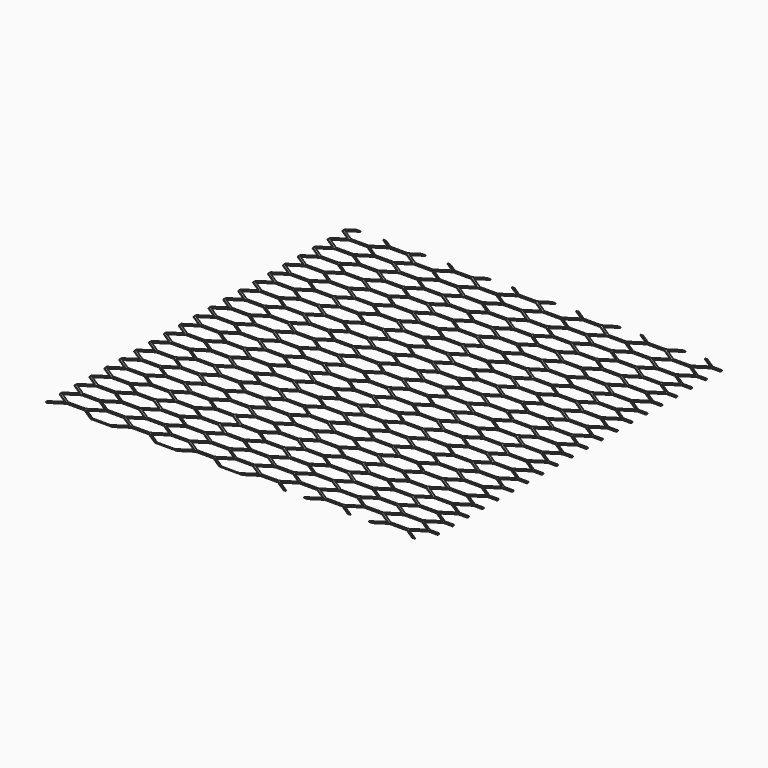
from build123d import *

# Parameters (mm, degrees)
F1_W     = 609.6
F1_H     = 609.6
F2_DEPTH = 1.2192
F3_DEPTH = 1.2192


with BuildPart() as f2:
    # F1 (on Top) → F2 (new body)
    with BuildSketch(Plane.XY):
        with Locations((304.8, 304.8)):
            Rectangle(F1_W, F1_H)
    extrude(amount=F2_DEPTH)

    # F0 (on Top) → F3 (cut, through all)
    with BuildSketch(Plane.XY):
        Polygon((22.591135, 13.462), (1.852864, 0), (22.591135, -13.462), (50.964592, -13.462), (71.702864, 0), (50.964592, 13.462), align=None)
        Polygon((-1.410208, -28.40941), (19.328064, -14.94741), (-1.410208, -1.48541), (-29.783665, -1.48541), (-50.521936, -14.94741), (-29.783665, -28.40941), align=None)
        Polygon((22.591135, 43.4086), (1.852864, 29.9466), (22.591135, 16.4846), (50.964592, 16.4846), (71.702864, 29.9466), (50.964592, 43.4086), align=None)
        Polygon((-1.410208, 1.53719), (19.328064, 14.99919), (-1.410208, 28.46119), (-29.783665, 28.46119), (-50.521936, 14.99919), (-29.783665, 1.53719), align=None)
        Polygon((126.719276, 13.058588), (105.981005, -0.403412), (126.719276, -13.865412), (155.092734, -13.865412), (175.831005, -0.403412), (155.092734, 13.058588), align=None)
        Polygon((102.717934, -28.812822), (123.456205, -15.350822), (102.717934, -1.888822), (74.344476, -1.888822), (53.606205, -15.350822), (74.344476, -28.812822), align=None)
        Polygon((126.719276, 43.005188), (105.981005, 29.543188), (126.719276, 16.081188), (155.092734, 16.081188), (175.831005, 29.543188), (155.092734, 43.005188), align=None)
        Polygon((102.717934, 1.133778), (123.456205, 14.595778), (102.717934, 28.057778), (74.344476, 28.057778), (53.606205, 14.595778), (74.344476, 1.133778), align=None)
        Polygon((230.847418, 12.655175), (210.109147, -0.806825), (230.847418, -14.268825), (259.220875, -14.268825), (279.959147, -0.806825), (259.220875, 12.655175), align=None)
        Polygon((206.846075, -29.216235), (227.584347, -15.754235), (206.846075, -2.292235), (178.472618, -2.292235), (157.734347, -15.754235), (178.472618, -29.216235), align=None)
        Polygon((230.847418, 42.601775), (210.109147, 29.139775), (230.847418, 15.677775), (259.220875, 15.677775), (279.959147, 29.139775), (259.220875, 42.601775), align=None)
        Polygon((206.846075, 0.730365), (227.584347, 14.192365), (206.846075, 27.654365), (178.472618, 27.654365), (157.734347, 14.192365), (178.472618, 0.730365), align=None)
        Polygon((334.975559, 12.251763), (314.237288, -1.210237), (334.975559, -14.672237), (363.349017, -14.672237), (384.087288, -1.210237), (363.349017, 12.251763), align=None)
        Polygon((310.974217, -29.619647), (331.712488, -16.157647), (310.974217, -2.695647), (282.600759, -2.695647), (261.862488, -16.157647), (282.600759, -29.619647), align=None)
        Polygon((334.975559, 42.198363), (314.237288, 28.736363), (334.975559, 15.274363), (363.349017, 15.274363), (384.087288, 28.736363), (363.349017, 42.198363), align=None)
        Polygon((310.974217, 0.326953), (331.712488, 13.788953), (310.974217, 27.250953), (282.600759, 27.250953), (261.862488, 13.788953), (282.600759, 0.326953), align=None)
        Polygon((439.103701, 11.848351), (418.36543, -1.613649), (439.103701, -15.075649), (467.477158, -15.075649), (488.21543, -1.613649), (467.477158, 11.848351), align=None)
        Polygon((415.102358, -30.023059), (435.84063, -16.561059), (415.102358, -3.099059), (386.728901, -3.099059), (365.99063, -16.561059), (386.728901, -30.023059), align=None)
        Polygon((439.103701, 41.794951), (418.36543, 28.332951), (439.103701, 14.870951), (467.477158, 14.870951), (488.21543, 28.332951), (467.477158, 41.794951), align=None)
        Polygon((415.102358, -0.076459), (435.84063, 13.385541), (415.102358, 26.847541), (386.728901, 26.847541), (365.99063, 13.385541), (386.728901, -0.076459), align=None)
        Polygon((543.231842, 11.444938), (522.493571, -2.017062), (543.231842, -15.479062), (571.6053, -15.479062), (592.343571, -2.017062), (571.6053, 11.444938), align=None)
        Polygon((519.2305, -30.426472), (539.968771, -16.964472), (519.2305, -3.502472), (490.857042, -3.502472), (470.118771, -16.964472), (490.857042, -30.426472), align=None)
        Polygon((543.231842, 41.391538), (522.493571, 27.929538), (543.231842, 14.467538), (571.6053, 14.467538), (592.343571, 27.929538), (571.6053, 41.391538), align=None)
        Polygon((519.2305, -0.479872), (539.968771, 12.982128), (519.2305, 26.444128), (490.857042, 26.444128), (470.118771, 12.982128), (490.857042, -0.479872), align=None)
        Polygon((647.359984, 11.041526), (626.621713, -2.420474), (647.359984, -15.882474), (675.733442, -15.882474), (696.471713, -2.420474), (675.733442, 11.041526), align=None)
        Polygon((623.358642, -30.829884), (644.096913, -17.367884), (623.358642, -3.905884), (594.985184, -3.905884), (574.246913, -17.367884), (594.985184, -30.829884), align=None)
        Polygon((647.359984, 40.988126), (626.621713, 27.526126), (647.359984, 14.064126), (675.733442, 14.064126), (696.471713, 27.526126), (675.733442, 40.988126), align=None)
        Polygon((623.358642, -0.883284), (644.096913, 12.578716), (623.358642, 26.040716), (594.985184, 26.040716), (574.246913, 12.578716), (594.985184, -0.883284), align=None)
        Polygon((22.591135, 73.3552), (1.852864, 59.8932), (22.591135, 46.4312), (50.964592, 46.4312), (71.702864, 59.8932), (50.964592, 73.3552), align=None)
        Polygon((-1.410208, 31.48379), (19.328064, 44.94579), (-1.410208, 58.40779), (-29.783665, 58.40779), (-50.521936, 44.94579), (-29.783665, 31.48379), align=None)
        Polygon((22.591135, 103.3018), (1.852864, 89.8398), (22.591135, 76.3778), (50.964592, 76.3778), (71.702864, 89.8398), (50.964592, 103.3018), align=None)
        Polygon((-1.410208, 61.43039), (19.328064, 74.89239), (-1.410208, 88.35439), (-29.783665, 88.35439), (-50.521936, 74.89239), (-29.783665, 61.43039), align=None)
        Polygon((22.591135, 133.2484), (1.852864, 119.7864), (22.591135, 106.3244), (50.964592, 106.3244), (71.702864, 119.7864), (50.964592, 133.2484), align=None)
        Polygon((-1.410208, 91.37699), (19.328064, 104.83899), (-1.410208, 118.30099), (-29.783665, 118.30099), (-50.521936, 104.83899), (-29.783665, 91.37699), align=None)
        Polygon((22.591135, 163.195), (1.852864, 149.733), (22.591135, 136.271), (50.964592, 136.271), (71.702864, 149.733), (50.964592, 163.195), align=None)
        Polygon((-1.410208, 121.32359), (19.328064, 134.78559), (-1.410208, 148.24759), (-29.783665, 148.24759), (-50.521936, 134.78559), (-29.783665, 121.32359), align=None)
        Polygon((22.591135, 193.1416), (1.852864, 179.6796), (22.591135, 166.2176), (50.964592, 166.2176), (71.702864, 179.6796), (50.964592, 193.1416), align=None)
        Polygon((-1.410208, 151.27019), (19.328064, 164.73219), (-1.410208, 178.19419), (-29.783665, 178.19419), (-50.521936, 164.73219), (-29.783665, 151.27019), align=None)
        Polygon((22.591135, 223.0882), (1.852864, 209.6262), (22.591135, 196.1642), (50.964592, 196.1642), (71.702864, 209.6262), (50.964592, 223.0882), align=None)
        Polygon((-1.410208, 181.21679), (19.328064, 194.67879), (-1.410208, 208.14079), (-29.783665, 208.14079), (-50.521936, 194.67879), (-29.783665, 181.21679), align=None)
        Polygon((22.591135, 253.0348), (1.852864, 239.5728), (22.591135, 226.1108), (50.964592, 226.1108), (71.702864, 239.5728), (50.964592, 253.0348), align=None)
        Polygon((-1.410208, 211.16339), (19.328064, 224.62539), (-1.410208, 238.08739), (-29.783665, 238.08739), (-50.521936, 224.62539), (-29.783665, 211.16339), align=None)
        Polygon((22.591135, 282.9814), (1.852864, 269.5194), (22.591135, 256.0574), (50.964592, 256.0574), (71.702864, 269.5194), (50.964592, 282.9814), align=None)
        Polygon((-1.410208, 241.10999), (19.328064, 254.57199), (-1.410208, 268.03399), (-29.783665, 268.03399), (-50.521936, 254.57199), (-29.783665, 241.10999), align=None)
        Polygon((22.591135, 312.928), (1.852864, 299.466), (22.591135, 286.004), (50.964592, 286.004), (71.702864, 299.466), (50.964592, 312.928), align=None)
        Polygon((-1.410208, 271.05659), (19.328064, 284.51859), (-1.410208, 297.98059), (-29.783665, 297.98059), (-50.521936, 284.51859), (-29.783665, 271.05659), align=None)
        Polygon((22.591135, 342.8746), (1.852864, 329.4126), (22.591135, 315.9506), (50.964592, 315.9506), (71.702864, 329.4126), (50.964592, 342.8746), align=None)
        Polygon((-1.410208, 301.00319), (19.328064, 314.46519), (-1.410208, 327.92719), (-29.783665, 327.92719), (-50.521936, 314.46519), (-29.783665, 301.00319), align=None)
        Polygon((22.591135, 372.8212), (1.852864, 359.3592), (22.591135, 345.8972), (50.964592, 345.8972), (71.702864, 359.3592), (50.964592, 372.8212), align=None)
        Polygon((-1.410208, 330.94979), (19.328064, 344.41179), (-1.410208, 357.87379), (-29.783665, 357.87379), (-50.521936, 344.41179), (-29.783665, 330.94979), align=None)
        Polygon((22.591135, 402.7678), (1.852864, 389.3058), (22.591135, 375.8438), (50.964592, 375.8438), (71.702864, 389.3058), (50.964592, 402.7678), align=None)
        Polygon((-1.410208, 360.89639), (19.328064, 374.35839), (-1.410208, 387.82039), (-29.783665, 387.82039), (-50.521936, 374.35839), (-29.783665, 360.89639), align=None)
        Polygon((22.591135, 432.7144), (1.852864, 419.2524), (22.591135, 405.7904), (50.964592, 405.7904), (71.702864, 419.2524), (50.964592, 432.7144), align=None)
        Polygon((-1.410208, 390.84299), (19.328064, 404.30499), (-1.410208, 417.76699), (-29.783665, 417.76699), (-50.521936, 404.30499), (-29.783665, 390.84299), align=None)
        Polygon((22.591135, 462.661), (1.852864, 449.199), (22.591135, 435.737), (50.964592, 435.737), (71.702864, 449.199), (50.964592, 462.661), align=None)
        Polygon((-1.410208, 420.78959), (19.328064, 434.25159), (-1.410208, 447.71359), (-29.783665, 447.71359), (-50.521936, 434.25159), (-29.783665, 420.78959), align=None)
        Polygon((22.591135, 492.6076), (1.852864, 479.1456), (22.591135, 465.6836), (50.964592, 465.6836), (71.702864, 479.1456), (50.964592, 492.6076), align=None)
        Polygon((-1.410208, 450.73619), (19.328064, 464.19819), (-1.410208, 477.66019), (-29.783665, 477.66019), (-50.521936, 464.19819), (-29.783665, 450.73619), align=None)
        Polygon((126.719276, 72.951788), (105.981005, 59.489788), (126.719276, 46.027788), (155.092734, 46.027788), (175.831005, 59.489788), (155.092734, 72.951788), align=None)
        Polygon((102.717934, 31.080378), (123.456205, 44.542378), (102.717934, 58.004378), (74.344476, 58.004378), (53.606205, 44.542378), (74.344476, 31.080378), align=None)
        Polygon((126.719276, 102.898388), (105.981005, 89.436388), (126.719276, 75.974388), (155.092734, 75.974388), (175.831005, 89.436388), (155.092734, 102.898388), align=None)
        Polygon((102.717934, 61.026978), (123.456205, 74.488978), (102.717934, 87.950978), (74.344476, 87.950978), (53.606205, 74.488978), (74.344476, 61.026978), align=None)
        Polygon((126.719276, 132.844988), (105.981005, 119.382988), (126.719276, 105.920988), (155.092734, 105.920988), (175.831005, 119.382988), (155.092734, 132.844988), align=None)
        Polygon((102.717934, 90.973578), (123.456205, 104.435578), (102.717934, 117.897578), (74.344476, 117.897578), (53.606205, 104.435578), (74.344476, 90.973578), align=None)
        Polygon((126.719276, 162.791588), (105.981005, 149.329588), (126.719276, 135.867588), (155.092734, 135.867588), (175.831005, 149.329588), (155.092734, 162.791588), align=None)
        Polygon((102.717934, 120.920178), (123.456205, 134.382178), (102.717934, 147.844178), (74.344476, 147.844178), (53.606205, 134.382178), (74.344476, 120.920178), align=None)
        Polygon((126.719276, 192.738188), (105.981005, 179.276188), (126.719276, 165.814188), (155.092734, 165.814188), (175.831005, 179.276188), (155.092734, 192.738188), align=None)
        Polygon((102.717934, 150.866778), (123.456205, 164.328778), (102.717934, 177.790778), (74.344476, 177.790778), (53.606205, 164.328778), (74.344476, 150.866778), align=None)
        Polygon((126.719276, 222.684788), (105.981005, 209.222788), (126.719276, 195.760788), (155.092734, 195.760788), (175.831005, 209.222788), (155.092734, 222.684788), align=None)
        Polygon((102.717934, 180.813378), (123.456205, 194.275378), (102.717934, 207.737378), (74.344476, 207.737378), (53.606205, 194.275378), (74.344476, 180.813378), align=None)
        Polygon((126.719276, 252.631388), (105.981005, 239.169388), (126.719276, 225.707388), (155.092734, 225.707388), (175.831005, 239.169388), (155.092734, 252.631388), align=None)
        Polygon((102.717934, 210.759978), (123.456205, 224.221978), (102.717934, 237.683978), (74.344476, 237.683978), (53.606205, 224.221978), (74.344476, 210.759978), align=None)
        Polygon((126.719276, 282.577988), (105.981005, 269.115988), (126.719276, 255.653988), (155.092734, 255.653988), (175.831005, 269.115988), (155.092734, 282.577988), align=None)
        Polygon((102.717934, 240.706578), (123.456205, 254.168578), (102.717934, 267.630578), (74.344476, 267.630578), (53.606205, 254.168578), (74.344476, 240.706578), align=None)
        Polygon((126.719276, 312.524588), (105.981005, 299.062588), (126.719276, 285.600588), (155.092734, 285.600588), (175.831005, 299.062588), (155.092734, 312.524588), align=None)
        Polygon((102.717934, 270.653178), (123.456205, 284.115178), (102.717934, 297.577178), (74.344476, 297.577178), (53.606205, 284.115178), (74.344476, 270.653178), align=None)
        Polygon((126.719276, 342.471188), (105.981005, 329.009188), (126.719276, 315.547188), (155.092734, 315.547188), (175.831005, 329.009188), (155.092734, 342.471188), align=None)
        Polygon((102.717934, 300.599778), (123.456205, 314.061778), (102.717934, 327.523778), (74.344476, 327.523778), (53.606205, 314.061778), (74.344476, 300.599778), align=None)
        Polygon((126.719276, 372.417788), (105.981005, 358.955788), (126.719276, 345.493788), (155.092734, 345.493788), (175.831005, 358.955788), (155.092734, 372.417788), align=None)
        Polygon((102.717934, 330.546378), (123.456205, 344.008378), (102.717934, 357.470378), (74.344476, 357.470378), (53.606205, 344.008378), (74.344476, 330.546378), align=None)
        Polygon((126.719276, 402.364388), (105.981005, 388.902388), (126.719276, 375.440388), (155.092734, 375.440388), (175.831005, 388.902388), (155.092734, 402.364388), align=None)
        Polygon((102.717934, 360.492978), (123.456205, 373.954978), (102.717934, 387.416978), (74.344476, 387.416978), (53.606205, 373.954978), (74.344476, 360.492978), align=None)
        Polygon((126.719276, 432.310988), (105.981005, 418.848988), (126.719276, 405.386988), (155.092734, 405.386988), (175.831005, 418.848988), (155.092734, 432.310988), align=None)
        Polygon((102.717934, 390.439578), (123.456205, 403.901578), (102.717934, 417.363578), (74.344476, 417.363578), (53.606205, 403.901578), (74.344476, 390.439578), align=None)
        Polygon((126.719276, 462.257588), (105.981005, 448.795588), (126.719276, 435.333588), (155.092734, 435.333588), (175.831005, 448.795588), (155.092734, 462.257588), align=None)
        Polygon((102.717934, 420.386178), (123.456205, 433.848178), (102.717934, 447.310178), (74.344476, 447.310178), (53.606205, 433.848178), (74.344476, 420.386178), align=None)
        Polygon((126.719276, 492.204188), (105.981005, 478.742188), (126.719276, 465.280188), (155.092734, 465.280188), (175.831005, 478.742188), (155.092734, 492.204188), align=None)
        Polygon((102.717934, 450.332778), (123.456205, 463.794778), (102.717934, 477.256778), (74.344476, 477.256778), (53.606205, 463.794778), (74.344476, 450.332778), align=None)
        Polygon((230.847418, 72.548375), (210.109147, 59.086375), (230.847418, 45.624375), (259.220875, 45.624375), (279.959147, 59.086375), (259.220875, 72.548375), align=None)
        Polygon((206.846075, 30.676965), (227.584347, 44.138965), (206.846075, 57.600965), (178.472618, 57.600965), (157.734347, 44.138965), (178.472618, 30.676965), align=None)
        Polygon((230.847418, 102.494975), (210.109147, 89.032975), (230.847418, 75.570975), (259.220875, 75.570975), (279.959147, 89.032975), (259.220875, 102.494975), align=None)
        Polygon((206.846075, 60.623565), (227.584347, 74.085565), (206.846075, 87.547565), (178.472618, 87.547565), (157.734347, 74.085565), (178.472618, 60.623565), align=None)
        Polygon((230.847418, 132.441575), (210.109147, 118.979575), (230.847418, 105.517575), (259.220875, 105.517575), (279.959147, 118.979575), (259.220875, 132.441575), align=None)
        Polygon((206.846075, 90.570165), (227.584347, 104.032165), (206.846075, 117.494165), (178.472618, 117.494165), (157.734347, 104.032165), (178.472618, 90.570165), align=None)
        Polygon((230.847418, 162.388175), (210.109147, 148.926175), (230.847418, 135.464175), (259.220875, 135.464175), (279.959147, 148.926175), (259.220875, 162.388175), align=None)
        Polygon((206.846075, 120.516765), (227.584347, 133.978765), (206.846075, 147.440765), (178.472618, 147.440765), (157.734347, 133.978765), (178.472618, 120.516765), align=None)
        Polygon((230.847418, 192.334775), (210.109147, 178.872775), (230.847418, 165.410775), (259.220875, 165.410775), (279.959147, 178.872775), (259.220875, 192.334775), align=None)
        Polygon((206.846075, 150.463365), (227.584347, 163.925365), (206.846075, 177.387365), (178.472618, 177.387365), (157.734347, 163.925365), (178.472618, 150.463365), align=None)
        Polygon((230.847418, 222.281375), (210.109147, 208.819375), (230.847418, 195.357375), (259.220875, 195.357375), (279.959147, 208.819375), (259.220875, 222.281375), align=None)
        Polygon((206.846075, 180.409965), (227.584347, 193.871965), (206.846075, 207.333965), (178.472618, 207.333965), (157.734347, 193.871965), (178.472618, 180.409965), align=None)
        Polygon((230.847418, 252.227975), (210.109147, 238.765975), (230.847418, 225.303975), (259.220875, 225.303975), (279.959147, 238.765975), (259.220875, 252.227975), align=None)
        Polygon((206.846075, 210.356565), (227.584347, 223.818565), (206.846075, 237.280565), (178.472618, 237.280565), (157.734347, 223.818565), (178.472618, 210.356565), align=None)
        Polygon((230.847418, 282.174575), (210.109147, 268.712575), (230.847418, 255.250575), (259.220875, 255.250575), (279.959147, 268.712575), (259.220875, 282.174575), align=None)
        Polygon((206.846075, 240.303165), (227.584347, 253.765165), (206.846075, 267.227165), (178.472618, 267.227165), (157.734347, 253.765165), (178.472618, 240.303165), align=None)
        Polygon((230.847418, 312.121175), (210.109147, 298.659175), (230.847418, 285.197175), (259.220875, 285.197175), (279.959147, 298.659175), (259.220875, 312.121175), align=None)
        Polygon((206.846075, 270.249765), (227.584347, 283.711765), (206.846075, 297.173765), (178.472618, 297.173765), (157.734347, 283.711765), (178.472618, 270.249765), align=None)
        Polygon((230.847418, 342.067775), (210.109147, 328.605775), (230.847418, 315.143775), (259.220875, 315.143775), (279.959147, 328.605775), (259.220875, 342.067775), align=None)
        Polygon((206.846075, 300.196365), (227.584347, 313.658365), (206.846075, 327.120365), (178.472618, 327.120365), (157.734347, 313.658365), (178.472618, 300.196365), align=None)
        Polygon((230.847418, 372.014375), (210.109147, 358.552375), (230.847418, 345.090375), (259.220875, 345.090375), (279.959147, 358.552375), (259.220875, 372.014375), align=None)
        Polygon((206.846075, 330.142965), (227.584347, 343.604965), (206.846075, 357.066965), (178.472618, 357.066965), (157.734347, 343.604965), (178.472618, 330.142965), align=None)
        Polygon((230.847418, 401.960975), (210.109147, 388.498975), (230.847418, 375.036975), (259.220875, 375.036975), (279.959147, 388.498975), (259.220875, 401.960975), align=None)
        Polygon((206.846075, 360.089565), (227.584347, 373.551565), (206.846075, 387.013565), (178.472618, 387.013565), (157.734347, 373.551565), (178.472618, 360.089565), align=None)
        Polygon((230.847418, 431.907575), (210.109147, 418.445575), (230.847418, 404.983575), (259.220875, 404.983575), (279.959147, 418.445575), (259.220875, 431.907575), align=None)
        Polygon((206.846075, 390.036165), (227.584347, 403.498165), (206.846075, 416.960165), (178.472618, 416.960165), (157.734347, 403.498165), (178.472618, 390.036165), align=None)
        Polygon((230.847418, 461.854175), (210.109147, 448.392175), (230.847418, 434.930175), (259.220875, 434.930175), (279.959147, 448.392175), (259.220875, 461.854175), align=None)
        Polygon((206.846075, 419.982765), (227.584347, 433.444765), (206.846075, 446.906765), (178.472618, 446.906765), (157.734347, 433.444765), (178.472618, 419.982765), align=None)
        Polygon((230.847418, 491.800775), (210.109147, 478.338775), (230.847418, 464.876775), (259.220875, 464.876775), (279.959147, 478.338775), (259.220875, 491.800775), align=None)
        Polygon((206.846075, 449.929365), (227.584347, 463.391365), (206.846075, 476.853365), (178.472618, 476.853365), (157.734347, 463.391365), (178.472618, 449.929365), align=None)
        Polygon((334.975559, 72.144963), (314.237288, 58.682963), (334.975559, 45.220963), (363.349017, 45.220963), (384.087288, 58.682963), (363.349017, 72.144963), align=None)
        Polygon((310.974217, 30.273553), (331.712488, 43.735553), (310.974217, 57.197553), (282.600759, 57.197553), (261.862488, 43.735553), (282.600759, 30.273553), align=None)
        Polygon((334.975559, 102.091563), (314.237288, 88.629563), (334.975559, 75.167563), (363.349017, 75.167563), (384.087288, 88.629563), (363.349017, 102.091563), align=None)
        Polygon((310.974217, 60.220153), (331.712488, 73.682153), (310.974217, 87.144153), (282.600759, 87.144153), (261.862488, 73.682153), (282.600759, 60.220153), align=None)
        Polygon((334.975559, 132.038163), (314.237288, 118.576163), (334.975559, 105.114163), (363.349017, 105.114163), (384.087288, 118.576163), (363.349017, 132.038163), align=None)
        Polygon((310.974217, 90.166753), (331.712488, 103.628753), (310.974217, 117.090753), (282.600759, 117.090753), (261.862488, 103.628753), (282.600759, 90.166753), align=None)
        Polygon((334.975559, 161.984763), (314.237288, 148.522763), (334.975559, 135.060763), (363.349017, 135.060763), (384.087288, 148.522763), (363.349017, 161.984763), align=None)
        Polygon((310.974217, 120.113353), (331.712488, 133.575353), (310.974217, 147.037353), (282.600759, 147.037353), (261.862488, 133.575353), (282.600759, 120.113353), align=None)
        Polygon((334.975559, 191.931363), (314.237288, 178.469363), (334.975559, 165.007363), (363.349017, 165.007363), (384.087288, 178.469363), (363.349017, 191.931363), align=None)
        Polygon((310.974217, 150.059953), (331.712488, 163.521953), (310.974217, 176.983953), (282.600759, 176.983953), (261.862488, 163.521953), (282.600759, 150.059953), align=None)
        Polygon((334.975559, 221.877963), (314.237288, 208.415963), (334.975559, 194.953963), (363.349017, 194.953963), (384.087288, 208.415963), (363.349017, 221.877963), align=None)
        Polygon((310.974217, 180.006553), (331.712488, 193.468553), (310.974217, 206.930553), (282.600759, 206.930553), (261.862488, 193.468553), (282.600759, 180.006553), align=None)
        Polygon((334.975559, 251.824563), (314.237288, 238.362563), (334.975559, 224.900563), (363.349017, 224.900563), (384.087288, 238.362563), (363.349017, 251.824563), align=None)
        Polygon((310.974217, 209.953153), (331.712488, 223.415153), (310.974217, 236.877153), (282.600759, 236.877153), (261.862488, 223.415153), (282.600759, 209.953153), align=None)
        Polygon((334.975559, 281.771163), (314.237288, 268.309163), (334.975559, 254.847163), (363.349017, 254.847163), (384.087288, 268.309163), (363.349017, 281.771163), align=None)
        Polygon((310.974217, 239.899753), (331.712488, 253.361753), (310.974217, 266.823753), (282.600759, 266.823753), (261.862488, 253.361753), (282.600759, 239.899753), align=None)
        Polygon((334.975559, 311.717763), (314.237288, 298.255763), (334.975559, 284.793763), (363.349017, 284.793763), (384.087288, 298.255763), (363.349017, 311.717763), align=None)
        Polygon((310.974217, 269.846353), (331.712488, 283.308353), (310.974217, 296.770353), (282.600759, 296.770353), (261.862488, 283.308353), (282.600759, 269.846353), align=None)
        Polygon((334.975559, 341.664363), (314.237288, 328.202363), (334.975559, 314.740363), (363.349017, 314.740363), (384.087288, 328.202363), (363.349017, 341.664363), align=None)
        Polygon((310.974217, 299.792953), (331.712488, 313.254953), (310.974217, 326.716953), (282.600759, 326.716953), (261.862488, 313.254953), (282.600759, 299.792953), align=None)
        Polygon((334.975559, 371.610963), (314.237288, 358.148963), (334.975559, 344.686963), (363.349017, 344.686963), (384.087288, 358.148963), (363.349017, 371.610963), align=None)
        Polygon((310.974217, 329.739553), (331.712488, 343.201553), (310.974217, 356.663553), (282.600759, 356.663553), (261.862488, 343.201553), (282.600759, 329.739553), align=None)
        Polygon((334.975559, 401.557563), (314.237288, 388.095563), (334.975559, 374.633563), (363.349017, 374.633563), (384.087288, 388.095563), (363.349017, 401.557563), align=None)
        Polygon((310.974217, 359.686153), (331.712488, 373.148153), (310.974217, 386.610153), (282.600759, 386.610153), (261.862488, 373.148153), (282.600759, 359.686153), align=None)
        Polygon((334.975559, 431.504163), (314.237288, 418.042163), (334.975559, 404.580163), (363.349017, 404.580163), (384.087288, 418.042163), (363.349017, 431.504163), align=None)
        Polygon((310.974217, 389.632753), (331.712488, 403.094753), (310.974217, 416.556753), (282.600759, 416.556753), (261.862488, 403.094753), (282.600759, 389.632753), align=None)
        Polygon((334.975559, 461.450763), (314.237288, 447.988763), (334.975559, 434.526763), (363.349017, 434.526763), (384.087288, 447.988763), (363.349017, 461.450763), align=None)
        Polygon((310.974217, 419.579353), (331.712488, 433.041353), (310.974217, 446.503353), (282.600759, 446.503353), (261.862488, 433.041353), (282.600759, 419.579353), align=None)
        Polygon((334.975559, 491.397363), (314.237288, 477.935363), (334.975559, 464.473363), (363.349017, 464.473363), (384.087288, 477.935363), (363.349017, 491.397363), align=None)
        Polygon((310.974217, 449.525953), (331.712488, 462.987953), (310.974217, 476.449953), (282.600759, 476.449953), (261.862488, 462.987953), (282.600759, 449.525953), align=None)
        Polygon((439.103701, 71.741551), (418.36543, 58.279551), (439.103701, 44.817551), (467.477158, 44.817551), (488.21543, 58.279551), (467.477158, 71.741551), align=None)
        Polygon((415.102358, 29.870141), (435.84063, 43.332141), (415.102358, 56.794141), (386.728901, 56.794141), (365.99063, 43.332141), (386.728901, 29.870141), align=None)
        Polygon((439.103701, 101.688151), (418.36543, 88.226151), (439.103701, 74.764151), (467.477158, 74.764151), (488.21543, 88.226151), (467.477158, 101.688151), align=None)
        Polygon((415.102358, 59.816741), (435.84063, 73.278741), (415.102358, 86.740741), (386.728901, 86.740741), (365.99063, 73.278741), (386.728901, 59.816741), align=None)
        Polygon((439.103701, 131.634751), (418.36543, 118.172751), (439.103701, 104.710751), (467.477158, 104.710751), (488.21543, 118.172751), (467.477158, 131.634751), align=None)
        Polygon((415.102358, 89.763341), (435.84063, 103.225341), (415.102358, 116.687341), (386.728901, 116.687341), (365.99063, 103.225341), (386.728901, 89.763341), align=None)
        Polygon((439.103701, 161.581351), (418.36543, 148.119351), (439.103701, 134.657351), (467.477158, 134.657351), (488.21543, 148.119351), (467.477158, 161.581351), align=None)
        Polygon((415.102358, 119.709941), (435.84063, 133.171941), (415.102358, 146.633941), (386.728901, 146.633941), (365.99063, 133.171941), (386.728901, 119.709941), align=None)
        Polygon((439.103701, 191.527951), (418.36543, 178.065951), (439.103701, 164.603951), (467.477158, 164.603951), (488.21543, 178.065951), (467.477158, 191.527951), align=None)
        Polygon((415.102358, 149.656541), (435.84063, 163.118541), (415.102358, 176.580541), (386.728901, 176.580541), (365.99063, 163.118541), (386.728901, 149.656541), align=None)
        Polygon((439.103701, 221.474551), (418.36543, 208.012551), (439.103701, 194.550551), (467.477158, 194.550551), (488.21543, 208.012551), (467.477158, 221.474551), align=None)
        Polygon((415.102358, 179.603141), (435.84063, 193.065141), (415.102358, 206.527141), (386.728901, 206.527141), (365.99063, 193.065141), (386.728901, 179.603141), align=None)
        Polygon((439.103701, 251.421151), (418.36543, 237.959151), (439.103701, 224.497151), (467.477158, 224.497151), (488.21543, 237.959151), (467.477158, 251.421151), align=None)
        Polygon((415.102358, 209.549741), (435.84063, 223.011741), (415.102358, 236.473741), (386.728901, 236.473741), (365.99063, 223.011741), (386.728901, 209.549741), align=None)
        Polygon((439.103701, 281.367751), (418.36543, 267.905751), (439.103701, 254.443751), (467.477158, 254.443751), (488.21543, 267.905751), (467.477158, 281.367751), align=None)
        Polygon((415.102358, 239.496341), (435.84063, 252.958341), (415.102358, 266.420341), (386.728901, 266.420341), (365.99063, 252.958341), (386.728901, 239.496341), align=None)
        Polygon((439.103701, 311.314351), (418.36543, 297.852351), (439.103701, 284.390351), (467.477158, 284.390351), (488.21543, 297.852351), (467.477158, 311.314351), align=None)
        Polygon((415.102358, 269.442941), (435.84063, 282.904941), (415.102358, 296.366941), (386.728901, 296.366941), (365.99063, 282.904941), (386.728901, 269.442941), align=None)
        Polygon((439.103701, 341.260951), (418.36543, 327.798951), (439.103701, 314.336951), (467.477158, 314.336951), (488.21543, 327.798951), (467.477158, 341.260951), align=None)
        Polygon((415.102358, 299.389541), (435.84063, 312.851541), (415.102358, 326.313541), (386.728901, 326.313541), (365.99063, 312.851541), (386.728901, 299.389541), align=None)
        Polygon((439.103701, 371.207551), (418.36543, 357.745551), (439.103701, 344.283551), (467.477158, 344.283551), (488.21543, 357.745551), (467.477158, 371.207551), align=None)
        Polygon((415.102358, 329.336141), (435.84063, 342.798141), (415.102358, 356.260141), (386.728901, 356.260141), (365.99063, 342.798141), (386.728901, 329.336141), align=None)
        Polygon((439.103701, 401.154151), (418.36543, 387.692151), (439.103701, 374.230151), (467.477158, 374.230151), (488.21543, 387.692151), (467.477158, 401.154151), align=None)
        Polygon((415.102358, 359.282741), (435.84063, 372.744741), (415.102358, 386.206741), (386.728901, 386.206741), (365.99063, 372.744741), (386.728901, 359.282741), align=None)
        Polygon((439.103701, 431.100751), (418.36543, 417.638751), (439.103701, 404.176751), (467.477158, 404.176751), (488.21543, 417.638751), (467.477158, 431.100751), align=None)
        Polygon((415.102358, 389.229341), (435.84063, 402.691341), (415.102358, 416.153341), (386.728901, 416.153341), (365.99063, 402.691341), (386.728901, 389.229341), align=None)
        Polygon((439.103701, 461.047351), (418.36543, 447.585351), (439.103701, 434.123351), (467.477158, 434.123351), (488.21543, 447.585351), (467.477158, 461.047351), align=None)
        Polygon((415.102358, 419.175941), (435.84063, 432.637941), (415.102358, 446.099941), (386.728901, 446.099941), (365.99063, 432.637941), (386.728901, 419.175941), align=None)
        Polygon((439.103701, 490.993951), (418.36543, 477.531951), (439.103701, 464.069951), (467.477158, 464.069951), (488.21543, 477.531951), (467.477158, 490.993951), align=None)
        Polygon((415.102358, 449.122541), (435.84063, 462.584541), (415.102358, 476.046541), (386.728901, 476.046541), (365.99063, 462.584541), (386.728901, 449.122541), align=None)
        Polygon((543.231842, 71.338138), (522.493571, 57.876138), (543.231842, 44.414138), (571.6053, 44.414138), (592.343571, 57.876138), (571.6053, 71.338138), align=None)
        Polygon((519.2305, 29.466728), (539.968771, 42.928728), (519.2305, 56.390728), (490.857042, 56.390728), (470.118771, 42.928728), (490.857042, 29.466728), align=None)
        Polygon((543.231842, 101.284738), (522.493571, 87.822738), (543.231842, 74.360738), (571.6053, 74.360738), (592.343571, 87.822738), (571.6053, 101.284738), align=None)
        Polygon((519.2305, 59.413328), (539.968771, 72.875328), (519.2305, 86.337328), (490.857042, 86.337328), (470.118771, 72.875328), (490.857042, 59.413328), align=None)
        Polygon((543.231842, 131.231338), (522.493571, 117.769338), (543.231842, 104.307338), (571.6053, 104.307338), (592.343571, 117.769338), (571.6053, 131.231338), align=None)
        Polygon((519.2305, 89.359928), (539.968771, 102.821928), (519.2305, 116.283928), (490.857042, 116.283928), (470.118771, 102.821928), (490.857042, 89.359928), align=None)
        Polygon((543.231842, 161.177938), (522.493571, 147.715938), (543.231842, 134.253938), (571.6053, 134.253938), (592.343571, 147.715938), (571.6053, 161.177938), align=None)
        Polygon((519.2305, 119.306528), (539.968771, 132.768528), (519.2305, 146.230528), (490.857042, 146.230528), (470.118771, 132.768528), (490.857042, 119.306528), align=None)
        Polygon((543.231842, 191.124538), (522.493571, 177.662538), (543.231842, 164.200538), (571.6053, 164.200538), (592.343571, 177.662538), (571.6053, 191.124538), align=None)
        Polygon((519.2305, 149.253128), (539.968771, 162.715128), (519.2305, 176.177128), (490.857042, 176.177128), (470.118771, 162.715128), (490.857042, 149.253128), align=None)
        Polygon((543.231842, 221.071138), (522.493571, 207.609138), (543.231842, 194.147138), (571.6053, 194.147138), (592.343571, 207.609138), (571.6053, 221.071138), align=None)
        Polygon((519.2305, 179.199728), (539.968771, 192.661728), (519.2305, 206.123728), (490.857042, 206.123728), (470.118771, 192.661728), (490.857042, 179.199728), align=None)
        Polygon((543.231842, 251.017738), (522.493571, 237.555738), (543.231842, 224.093738), (571.6053, 224.093738), (592.343571, 237.555738), (571.6053, 251.017738), align=None)
        Polygon((519.2305, 209.146328), (539.968771, 222.608328), (519.2305, 236.070328), (490.857042, 236.070328), (470.118771, 222.608328), (490.857042, 209.146328), align=None)
        Polygon((543.231842, 280.964338), (522.493571, 267.502338), (543.231842, 254.040338), (571.6053, 254.040338), (592.343571, 267.502338), (571.6053, 280.964338), align=None)
        Polygon((519.2305, 239.092928), (539.968771, 252.554928), (519.2305, 266.016928), (490.857042, 266.016928), (470.118771, 252.554928), (490.857042, 239.092928), align=None)
        Polygon((543.231842, 310.910938), (522.493571, 297.448938), (543.231842, 283.986938), (571.6053, 283.986938), (592.343571, 297.448938), (571.6053, 310.910938), align=None)
        Polygon((519.2305, 269.039528), (539.968771, 282.501528), (519.2305, 295.963528), (490.857042, 295.963528), (470.118771, 282.501528), (490.857042, 269.039528), align=None)
        Polygon((543.231842, 340.857538), (522.493571, 327.395538), (543.231842, 313.933538), (571.6053, 313.933538), (592.343571, 327.395538), (571.6053, 340.857538), align=None)
        Polygon((519.2305, 298.986128), (539.968771, 312.448128), (519.2305, 325.910128), (490.857042, 325.910128), (470.118771, 312.448128), (490.857042, 298.986128), align=None)
        Polygon((543.231842, 370.804138), (522.493571, 357.342138), (543.231842, 343.880138), (571.6053, 343.880138), (592.343571, 357.342138), (571.6053, 370.804138), align=None)
        Polygon((519.2305, 328.932728), (539.968771, 342.394728), (519.2305, 355.856728), (490.857042, 355.856728), (470.118771, 342.394728), (490.857042, 328.932728), align=None)
        Polygon((543.231842, 400.750738), (522.493571, 387.288738), (543.231842, 373.826738), (571.6053, 373.826738), (592.343571, 387.288738), (571.6053, 400.750738), align=None)
        Polygon((519.2305, 358.879328), (539.968771, 372.341328), (519.2305, 385.803328), (490.857042, 385.803328), (470.118771, 372.341328), (490.857042, 358.879328), align=None)
        Polygon((543.231842, 430.697338), (522.493571, 417.235338), (543.231842, 403.773338), (571.6053, 403.773338), (592.343571, 417.235338), (571.6053, 430.697338), align=None)
        Polygon((519.2305, 388.825928), (539.968771, 402.287928), (519.2305, 415.749928), (490.857042, 415.749928), (470.118771, 402.287928), (490.857042, 388.825928), align=None)
        Polygon((543.231842, 460.643938), (522.493571, 447.181938), (543.231842, 433.719938), (571.6053, 433.719938), (592.343571, 447.181938), (571.6053, 460.643938), align=None)
        Polygon((519.2305, 418.772528), (539.968771, 432.234528), (519.2305, 445.696528), (490.857042, 445.696528), (470.118771, 432.234528), (490.857042, 418.772528), align=None)
        Polygon((543.231842, 490.590538), (522.493571, 477.128538), (543.231842, 463.666538), (571.6053, 463.666538), (592.343571, 477.128538), (571.6053, 490.590538), align=None)
        Polygon((519.2305, 448.719128), (539.968771, 462.181128), (519.2305, 475.643128), (490.857042, 475.643128), (470.118771, 462.181128), (490.857042, 448.719128), align=None)
        Polygon((647.359984, 70.934726), (626.621713, 57.472726), (647.359984, 44.010726), (675.733442, 44.010726), (696.471713, 57.472726), (675.733442, 70.934726), align=None)
        Polygon((623.358642, 29.063316), (644.096913, 42.525316), (623.358642, 55.987316), (594.985184, 55.987316), (574.246913, 42.525316), (594.985184, 29.063316), align=None)
        Polygon((647.359984, 100.881326), (626.621713, 87.419326), (647.359984, 73.957326), (675.733442, 73.957326), (696.471713, 87.419326), (675.733442, 100.881326), align=None)
        Polygon((623.358642, 59.009916), (644.096913, 72.471916), (623.358642, 85.933916), (594.985184, 85.933916), (574.246913, 72.471916), (594.985184, 59.009916), align=None)
        Polygon((647.359984, 130.827926), (626.621713, 117.365926), (647.359984, 103.903926), (675.733442, 103.903926), (696.471713, 117.365926), (675.733442, 130.827926), align=None)
        Polygon((623.358642, 88.956516), (644.096913, 102.418516), (623.358642, 115.880516), (594.985184, 115.880516), (574.246913, 102.418516), (594.985184, 88.956516), align=None)
        Polygon((647.359984, 160.774526), (626.621713, 147.312526), (647.359984, 133.850526), (675.733442, 133.850526), (696.471713, 147.312526), (675.733442, 160.774526), align=None)
        Polygon((623.358642, 118.903116), (644.096913, 132.365116), (623.358642, 145.827116), (594.985184, 145.827116), (574.246913, 132.365116), (594.985184, 118.903116), align=None)
        Polygon((647.359984, 190.721126), (626.621713, 177.259126), (647.359984, 163.797126), (675.733442, 163.797126), (696.471713, 177.259126), (675.733442, 190.721126), align=None)
        Polygon((623.358642, 148.849716), (644.096913, 162.311716), (623.358642, 175.773716), (594.985184, 175.773716), (574.246913, 162.311716), (594.985184, 148.849716), align=None)
        Polygon((647.359984, 220.667726), (626.621713, 207.205726), (647.359984, 193.743726), (675.733442, 193.743726), (696.471713, 207.205726), (675.733442, 220.667726), align=None)
        Polygon((623.358642, 178.796316), (644.096913, 192.258316), (623.358642, 205.720316), (594.985184, 205.720316), (574.246913, 192.258316), (594.985184, 178.796316), align=None)
        Polygon((647.359984, 250.614326), (626.621713, 237.152326), (647.359984, 223.690326), (675.733442, 223.690326), (696.471713, 237.152326), (675.733442, 250.614326), align=None)
        Polygon((623.358642, 208.742916), (644.096913, 222.204916), (623.358642, 235.666916), (594.985184, 235.666916), (574.246913, 222.204916), (594.985184, 208.742916), align=None)
        Polygon((647.359984, 280.560926), (626.621713, 267.098926), (647.359984, 253.636926), (675.733442, 253.636926), (696.471713, 267.098926), (675.733442, 280.560926), align=None)
        Polygon((623.358642, 238.689516), (644.096913, 252.151516), (623.358642, 265.613516), (594.985184, 265.613516), (574.246913, 252.151516), (594.985184, 238.689516), align=None)
        Polygon((647.359984, 310.507526), (626.621713, 297.045526), (647.359984, 283.583526), (675.733442, 283.583526), (696.471713, 297.045526), (675.733442, 310.507526), align=None)
        Polygon((623.358642, 268.636116), (644.096913, 282.098116), (623.358642, 295.560116), (594.985184, 295.560116), (574.246913, 282.098116), (594.985184, 268.636116), align=None)
        Polygon((647.359984, 340.454126), (626.621713, 326.992126), (647.359984, 313.530126), (675.733442, 313.530126), (696.471713, 326.992126), (675.733442, 340.454126), align=None)
        Polygon((623.358642, 298.582716), (644.096913, 312.044716), (623.358642, 325.506716), (594.985184, 325.506716), (574.246913, 312.044716), (594.985184, 298.582716), align=None)
        Polygon((647.359984, 370.400726), (626.621713, 356.938726), (647.359984, 343.476726), (675.733442, 343.476726), (696.471713, 356.938726), (675.733442, 370.400726), align=None)
        Polygon((623.358642, 328.529316), (644.096913, 341.991316), (623.358642, 355.453316), (594.985184, 355.453316), (574.246913, 341.991316), (594.985184, 328.529316), align=None)
        Polygon((647.359984, 400.347326), (626.621713, 386.885326), (647.359984, 373.423326), (675.733442, 373.423326), (696.471713, 386.885326), (675.733442, 400.347326), align=None)
        Polygon((623.358642, 358.475916), (644.096913, 371.937916), (623.358642, 385.399916), (594.985184, 385.399916), (574.246913, 371.937916), (594.985184, 358.475916), align=None)
        Polygon((647.359984, 430.293926), (626.621713, 416.831926), (647.359984, 403.369926), (675.733442, 403.369926), (696.471713, 416.831926), (675.733442, 430.293926), align=None)
        Polygon((623.358642, 388.422516), (644.096913, 401.884516), (623.358642, 415.346516), (594.985184, 415.346516), (574.246913, 401.884516), (594.985184, 388.422516), align=None)
        Polygon((647.359984, 460.240526), (626.621713, 446.778526), (647.359984, 433.316526), (675.733442, 433.316526), (696.471713, 446.778526), (675.733442, 460.240526), align=None)
        Polygon((623.358642, 418.369116), (644.096913, 431.831116), (623.358642, 445.293116), (594.985184, 445.293116), (574.246913, 431.831116), (594.985184, 418.369116), align=None)
        Polygon((647.359984, 490.187126), (626.621713, 476.725126), (647.359984, 463.263126), (675.733442, 463.263126), (696.471713, 476.725126), (675.733442, 490.187126), align=None)
        Polygon((623.358642, 448.315716), (644.096913, 461.777716), (623.358642, 475.239716), (594.985184, 475.239716), (574.246913, 461.777716), (594.985184, 448.315716), align=None)
        Polygon((22.591135, 522.5542), (1.852864, 509.0922), (22.591135, 495.6302), (50.964592, 495.6302), (71.702864, 509.0922), (50.964592, 522.5542), align=None)
        Polygon((-1.410208, 480.68279), (19.328064, 494.14479), (-1.410208, 507.60679), (-29.783665, 507.60679), (-50.521936, 494.14479), (-29.783665, 480.68279), align=None)
        Polygon((22.591135, 552.5008), (1.852864, 539.0388), (22.591135, 525.5768), (50.964592, 525.5768), (71.702864, 539.0388), (50.964592, 552.5008), align=None)
        Polygon((-1.410208, 510.62939), (19.328064, 524.09139), (-1.410208, 537.55339), (-29.783665, 537.55339), (-50.521936, 524.09139), (-29.783665, 510.62939), align=None)
        Polygon((22.591135, 582.4474), (1.852864, 568.9854), (22.591135, 555.5234), (50.964592, 555.5234), (71.702864, 568.9854), (50.964592, 582.4474), align=None)
        Polygon((-1.410208, 540.57599), (19.328064, 554.03799), (-1.410208, 567.49999), (-29.783665, 567.49999), (-50.521936, 554.03799), (-29.783665, 540.57599), align=None)
        Polygon((126.719276, 522.150788), (105.981005, 508.688788), (126.719276, 495.226788), (155.092734, 495.226788), (175.831005, 508.688788), (155.092734, 522.150788), align=None)
        Polygon((102.717934, 480.279378), (123.456205, 493.741378), (102.717934, 507.203378), (74.344476, 507.203378), (53.606205, 493.741378), (74.344476, 480.279378), align=None)
        Polygon((126.719276, 552.097388), (105.981005, 538.635388), (126.719276, 525.173388), (155.092734, 525.173388), (175.831005, 538.635388), (155.092734, 552.097388), align=None)
        Polygon((102.717934, 510.225978), (123.456205, 523.687978), (102.717934, 537.149978), (74.344476, 537.149978), (53.606205, 523.687978), (74.344476, 510.225978), align=None)
        Polygon((126.719276, 582.043988), (105.981005, 568.581988), (126.719276, 555.119988), (155.092734, 555.119988), (175.831005, 568.581988), (155.092734, 582.043988), align=None)
        Polygon((102.717934, 540.172578), (123.456205, 553.634578), (102.717934, 567.096578), (74.344476, 567.096578), (53.606205, 553.634578), (74.344476, 540.172578), align=None)
        Polygon((230.847418, 521.747375), (210.109147, 508.285375), (230.847418, 494.823375), (259.220875, 494.823375), (279.959147, 508.285375), (259.220875, 521.747375), align=None)
        Polygon((206.846075, 479.875965), (227.584347, 493.337965), (206.846075, 506.799965), (178.472618, 506.799965), (157.734347, 493.337965), (178.472618, 479.875965), align=None)
        Polygon((230.847418, 551.693975), (210.109147, 538.231975), (230.847418, 524.769975), (259.220875, 524.769975), (279.959147, 538.231975), (259.220875, 551.693975), align=None)
        Polygon((206.846075, 509.822565), (227.584347, 523.284565), (206.846075, 536.746565), (178.472618, 536.746565), (157.734347, 523.284565), (178.472618, 509.822565), align=None)
        Polygon((230.847418, 581.640575), (210.109147, 568.178575), (230.847418, 554.716575), (259.220875, 554.716575), (279.959147, 568.178575), (259.220875, 581.640575), align=None)
        Polygon((206.846075, 539.769165), (227.584347, 553.231165), (206.846075, 566.693165), (178.472618, 566.693165), (157.734347, 553.231165), (178.472618, 539.769165), align=None)
        Polygon((334.975559, 521.343963), (314.237288, 507.881963), (334.975559, 494.419963), (363.349017, 494.419963), (384.087288, 507.881963), (363.349017, 521.343963), align=None)
        Polygon((310.974217, 479.472553), (331.712488, 492.934553), (310.974217, 506.396553), (282.600759, 506.396553), (261.862488, 492.934553), (282.600759, 479.472553), align=None)
        Polygon((334.975559, 551.290563), (314.237288, 537.828563), (334.975559, 524.366563), (363.349017, 524.366563), (384.087288, 537.828563), (363.349017, 551.290563), align=None)
        Polygon((310.974217, 509.419153), (331.712488, 522.881153), (310.974217, 536.343153), (282.600759, 536.343153), (261.862488, 522.881153), (282.600759, 509.419153), align=None)
        Polygon((334.975559, 581.237163), (314.237288, 567.775163), (334.975559, 554.313163), (363.349017, 554.313163), (384.087288, 567.775163), (363.349017, 581.237163), align=None)
        Polygon((310.974217, 539.365753), (331.712488, 552.827753), (310.974217, 566.289753), (282.600759, 566.289753), (261.862488, 552.827753), (282.600759, 539.365753), align=None)
        Polygon((439.103701, 520.940551), (418.36543, 507.478551), (439.103701, 494.016551), (467.477158, 494.016551), (488.21543, 507.478551), (467.477158, 520.940551), align=None)
        Polygon((415.102358, 479.069141), (435.84063, 492.531141), (415.102358, 505.993141), (386.728901, 505.993141), (365.99063, 492.531141), (386.728901, 479.069141), align=None)
        Polygon((439.103701, 550.887151), (418.36543, 537.425151), (439.103701, 523.963151), (467.477158, 523.963151), (488.21543, 537.425151), (467.477158, 550.887151), align=None)
        Polygon((415.102358, 509.015741), (435.84063, 522.477741), (415.102358, 535.939741), (386.728901, 535.939741), (365.99063, 522.477741), (386.728901, 509.015741), align=None)
        Polygon((439.103701, 580.833751), (418.36543, 567.371751), (439.103701, 553.909751), (467.477158, 553.909751), (488.21543, 567.371751), (467.477158, 580.833751), align=None)
        Polygon((415.102358, 538.962341), (435.84063, 552.424341), (415.102358, 565.886341), (386.728901, 565.886341), (365.99063, 552.424341), (386.728901, 538.962341), align=None)
        Polygon((543.231842, 520.537138), (522.493571, 507.075138), (543.231842, 493.613138), (571.6053, 493.613138), (592.343571, 507.075138), (571.6053, 520.537138), align=None)
        Polygon((519.2305, 478.665728), (539.968771, 492.127728), (519.2305, 505.589728), (490.857042, 505.589728), (470.118771, 492.127728), (490.857042, 478.665728), align=None)
        Polygon((543.231842, 550.483738), (522.493571, 537.021738), (543.231842, 523.559738), (571.6053, 523.559738), (592.343571, 537.021738), (571.6053, 550.483738), align=None)
        Polygon((519.2305, 508.612328), (539.968771, 522.074328), (519.2305, 535.536328), (490.857042, 535.536328), (470.118771, 522.074328), (490.857042, 508.612328), align=None)
        Polygon((543.231842, 580.430338), (522.493571, 566.968338), (543.231842, 553.506338), (571.6053, 553.506338), (592.343571, 566.968338), (571.6053, 580.430338), align=None)
        Polygon((519.2305, 538.558928), (539.968771, 552.020928), (519.2305, 565.482928), (490.857042, 565.482928), (470.118771, 552.020928), (490.857042, 538.558928), align=None)
        Polygon((647.359984, 520.133726), (626.621713, 506.671726), (647.359984, 493.209726), (675.733442, 493.209726), (696.471713, 506.671726), (675.733442, 520.133726), align=None)
        Polygon((623.358642, 478.262316), (644.096913, 491.724316), (623.358642, 505.186316), (594.985184, 505.186316), (574.246913, 491.724316), (594.985184, 478.262316), align=None)
        Polygon((647.359984, 550.080326), (626.621713, 536.618326), (647.359984, 523.156326), (675.733442, 523.156326), (696.471713, 536.618326), (675.733442, 550.080326), align=None)
        Polygon((623.358642, 508.208916), (644.096913, 521.670916), (623.358642, 535.132916), (594.985184, 535.132916), (574.246913, 521.670916), (594.985184, 508.208916), align=None)
        Polygon((647.359984, 580.026926), (626.621713, 566.564926), (647.359984, 553.102926), (675.733442, 553.102926), (696.471713, 566.564926), (675.733442, 580.026926), align=None)
        Polygon((623.358642, 538.155516), (644.096913, 551.617516), (623.358642, 565.079516), (594.985184, 565.079516), (574.246913, 551.617516), (594.985184, 538.155516), align=None)
        Polygon((22.591135, 612.394), (1.852864, 598.932), (22.591135, 585.47), (50.964592, 585.47), (71.702864, 598.932), (50.964592, 612.394), align=None)
        Polygon((-1.410208, 570.52259), (19.328064, 583.98459), (-1.410208, 597.44659), (-29.783665, 597.44659), (-50.521936, 583.98459), (-29.783665, 570.52259), align=None)
        Polygon((22.591135, 642.3406), (1.852864, 628.8786), (22.591135, 615.4166), (50.964592, 615.4166), (71.702864, 628.8786), (50.964592, 642.3406), align=None)
        Polygon((-1.410208, 600.46919), (19.328064, 613.93119), (-1.410208, 627.39319), (-29.783665, 627.39319), (-50.521936, 613.93119), (-29.783665, 600.46919), align=None)
        Polygon((22.591135, 672.2872), (1.852864, 658.8252), (22.591135, 645.3632), (50.964592, 645.3632), (71.702864, 658.8252), (50.964592, 672.2872), align=None)
        Polygon((-1.410208, 630.41579), (19.328064, 643.87779), (-1.410208, 657.33979), (-29.783665, 657.33979), (-50.521936, 643.87779), (-29.783665, 630.41579), align=None)
        Polygon((126.719276, 611.990588), (105.981005, 598.528588), (126.719276, 585.066588), (155.092734, 585.066588), (175.831005, 598.528588), (155.092734, 611.990588), align=None)
        Polygon((102.717934, 570.119178), (123.456205, 583.581178), (102.717934, 597.043178), (74.344476, 597.043178), (53.606205, 583.581178), (74.344476, 570.119178), align=None)
        Polygon((126.719276, 641.937188), (105.981005, 628.475188), (126.719276, 615.013188), (155.092734, 615.013188), (175.831005, 628.475188), (155.092734, 641.937188), align=None)
        Polygon((102.717934, 600.065778), (123.456205, 613.527778), (102.717934, 626.989778), (74.344476, 626.989778), (53.606205, 613.527778), (74.344476, 600.065778), align=None)
        Polygon((126.719276, 671.883788), (105.981005, 658.421788), (126.719276, 644.959788), (155.092734, 644.959788), (175.831005, 658.421788), (155.092734, 671.883788), align=None)
        Polygon((102.717934, 630.012378), (123.456205, 643.474378), (102.717934, 656.936378), (74.344476, 656.936378), (53.606205, 643.474378), (74.344476, 630.012378), align=None)
        Polygon((230.847418, 611.587175), (210.109147, 598.125175), (230.847418, 584.663175), (259.220875, 584.663175), (279.959147, 598.125175), (259.220875, 611.587175), align=None)
        Polygon((206.846075, 569.715765), (227.584347, 583.177765), (206.846075, 596.639765), (178.472618, 596.639765), (157.734347, 583.177765), (178.472618, 569.715765), align=None)
        Polygon((230.847418, 641.533775), (210.109147, 628.071775), (230.847418, 614.609775), (259.220875, 614.609775), (279.959147, 628.071775), (259.220875, 641.533775), align=None)
        Polygon((206.846075, 599.662365), (227.584347, 613.124365), (206.846075, 626.586365), (178.472618, 626.586365), (157.734347, 613.124365), (178.472618, 599.662365), align=None)
        Polygon((230.847418, 671.480375), (210.109147, 658.018375), (230.847418, 644.556375), (259.220875, 644.556375), (279.959147, 658.018375), (259.220875, 671.480375), align=None)
        Polygon((206.846075, 629.608965), (227.584347, 643.070965), (206.846075, 656.532965), (178.472618, 656.532965), (157.734347, 643.070965), (178.472618, 629.608965), align=None)
        Polygon((334.975559, 611.183763), (314.237288, 597.721763), (334.975559, 584.259763), (363.349017, 584.259763), (384.087288, 597.721763), (363.349017, 611.183763), align=None)
        Polygon((310.974217, 569.312353), (331.712488, 582.774353), (310.974217, 596.236353), (282.600759, 596.236353), (261.862488, 582.774353), (282.600759, 569.312353), align=None)
        Polygon((334.975559, 641.130363), (314.237288, 627.668363), (334.975559, 614.206363), (363.349017, 614.206363), (384.087288, 627.668363), (363.349017, 641.130363), align=None)
        Polygon((310.974217, 599.258953), (331.712488, 612.720953), (310.974217, 626.182953), (282.600759, 626.182953), (261.862488, 612.720953), (282.600759, 599.258953), align=None)
        Polygon((334.975559, 671.076963), (314.237288, 657.614963), (334.975559, 644.152963), (363.349017, 644.152963), (384.087288, 657.614963), (363.349017, 671.076963), align=None)
        Polygon((310.974217, 629.205553), (331.712488, 642.667553), (310.974217, 656.129553), (282.600759, 656.129553), (261.862488, 642.667553), (282.600759, 629.205553), align=None)
        Polygon((439.103701, 610.780351), (418.36543, 597.318351), (439.103701, 583.856351), (467.477158, 583.856351), (488.21543, 597.318351), (467.477158, 610.780351), align=None)
        Polygon((415.102358, 568.908941), (435.84063, 582.370941), (415.102358, 595.832941), (386.728901, 595.832941), (365.99063, 582.370941), (386.728901, 568.908941), align=None)
        Polygon((439.103701, 640.726951), (418.36543, 627.264951), (439.103701, 613.802951), (467.477158, 613.802951), (488.21543, 627.264951), (467.477158, 640.726951), align=None)
        Polygon((415.102358, 598.855541), (435.84063, 612.317541), (415.102358, 625.779541), (386.728901, 625.779541), (365.99063, 612.317541), (386.728901, 598.855541), align=None)
        Polygon((439.103701, 670.673551), (418.36543, 657.211551), (439.103701, 643.749551), (467.477158, 643.749551), (488.21543, 657.211551), (467.477158, 670.673551), align=None)
        Polygon((415.102358, 628.802141), (435.84063, 642.264141), (415.102358, 655.726141), (386.728901, 655.726141), (365.99063, 642.264141), (386.728901, 628.802141), align=None)
        Polygon((543.231842, 610.376938), (522.493571, 596.914938), (543.231842, 583.452938), (571.6053, 583.452938), (592.343571, 596.914938), (571.6053, 610.376938), align=None)
        Polygon((519.2305, 568.505528), (539.968771, 581.967528), (519.2305, 595.429528), (490.857042, 595.429528), (470.118771, 581.967528), (490.857042, 568.505528), align=None)
        Polygon((543.231842, 640.323538), (522.493571, 626.861538), (543.231842, 613.399538), (571.6053, 613.399538), (592.343571, 626.861538), (571.6053, 640.323538), align=None)
        Polygon((519.2305, 598.452128), (539.968771, 611.914128), (519.2305, 625.376128), (490.857042, 625.376128), (470.118771, 611.914128), (490.857042, 598.452128), align=None)
        Polygon((543.231842, 670.270138), (522.493571, 656.808138), (543.231842, 643.346138), (571.6053, 643.346138), (592.343571, 656.808138), (571.6053, 670.270138), align=None)
        Polygon((519.2305, 628.398728), (539.968771, 641.860728), (519.2305, 655.322728), (490.857042, 655.322728), (470.118771, 641.860728), (490.857042, 628.398728), align=None)
        Polygon((647.359984, 609.973526), (626.621713, 596.511526), (647.359984, 583.049526), (675.733442, 583.049526), (696.471713, 596.511526), (675.733442, 609.973526), align=None)
        Polygon((623.358642, 568.102116), (644.096913, 581.564116), (623.358642, 595.026116), (594.985184, 595.026116), (574.246913, 581.564116), (594.985184, 568.102116), align=None)
        Polygon((647.359984, 639.920126), (626.621713, 626.458126), (647.359984, 612.996126), (675.733442, 612.996126), (696.471713, 626.458126), (675.733442, 639.920126), align=None)
        Polygon((623.358642, 598.048716), (644.096913, 611.510716), (623.358642, 624.972716), (594.985184, 624.972716), (574.246913, 611.510716), (594.985184, 598.048716), align=None)
        Polygon((647.359984, 669.866726), (626.621713, 656.404726), (647.359984, 642.942726), (675.733442, 642.942726), (696.471713, 656.404726), (675.733442, 669.866726), align=None)
        Polygon((623.358642, 627.995316), (644.096913, 641.457316), (623.358642, 654.919316), (594.985184, 654.919316), (574.246913, 641.457316), (594.985184, 627.995316), align=None)
    extrude(amount=F3_DEPTH, mode=Mode.SUBTRACT)


solid = f2.part
